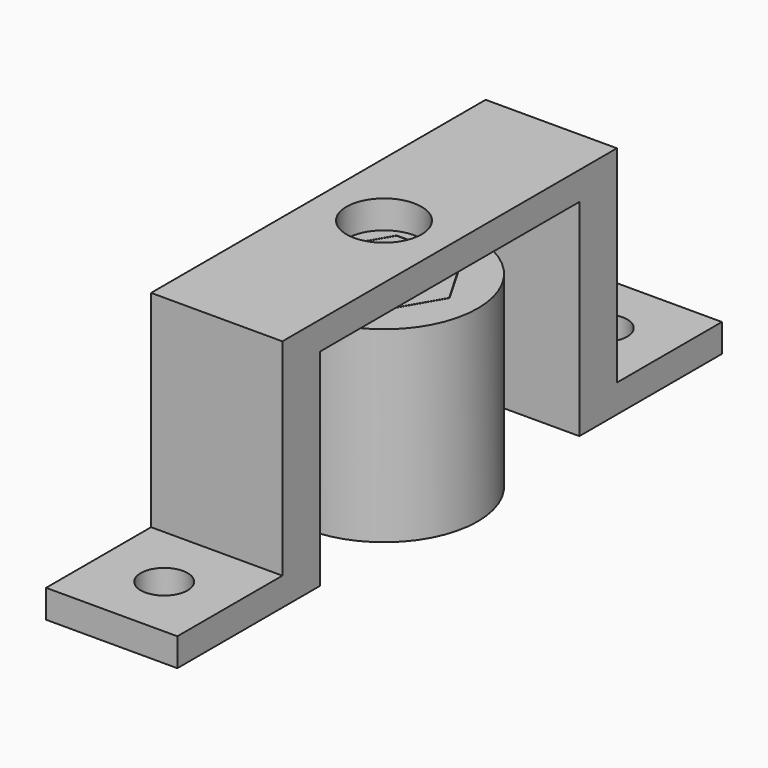
from build123d import *

# Parameters (mm, degrees)
SKETCH004_R      = 2.5
EXTRUDE003_DEPTH = 3
SKETCH005_W      = 14
SKETCH005_H      = 5
EXTRUDE004_DEPTH = 19
SKETCH006_W      = 14
SKETCH006_H      = 44.6
SKETCH006_R      = 4
EXTRUDE005_DEPTH = 3
SKETCH001_R      = 10
EXTRUDE001_DEPTH = 9
SKETCH_R         = 10
SKETCH_R_2       = 2.85
EXTRUDE_DEPTH    = 3
SKETCH007_R      = 10
EXTRUDE006_DEPTH = 8
EXTRUDE007_DEPTH = 8


with BuildPart() as p3base:
    # Sketch004 → Extrude003 (new body)
    with BuildSketch(Plane(origin=(0, 0, 0), x_dir=(1, 0, 0), z_dir=(0, 0, -1))):
        Polygon((7, 36.3), (-7, 36.3), (-7, 22.3), (-7, 17.3), (7, 17.3), (7, 22.3), align=None)
        with Locations((0, 29.3)):
            Circle(SKETCH004_R, mode=Mode.SUBTRACT)
        Polygon((7, -36.3), (7, -22.3), (7, -17.3), (-7, -17.3), (-7, -22.3), (-7, -36.3), align=None)
        with Locations((0, -29.3)):
            Circle(SKETCH004_R, mode=Mode.SUBTRACT)
    extrude(amount=-EXTRUDE003_DEPTH)


with BuildPart() as p3walls:
    # Sketch005 (on Face17 of Extrude003) → Extrude004 (new body)
    with BuildSketch(Plane.XY.offset(3)):
        with Locations((0, 19.8)):
            Rectangle(SKETCH005_W, SKETCH005_H)
        with Locations((0, -19.8)):
            Rectangle(SKETCH005_W, SKETCH005_H)
    extrude(amount=EXTRUDE004_DEPTH)


with BuildPart() as p3:
    # Sketch006 (on Face6 of Extrude004) → Extrude005 (new body)
    with BuildSketch(Plane.XY.offset(22)):
        Rectangle(SKETCH006_W, SKETCH006_H)
        Circle(SKETCH006_R, mode=Mode.SUBTRACT)
    extrude(amount=EXTRUDE005_DEPTH)

    # Fusion001: union P3Base, P3Walls
    add(p3base.part)
    add(p3walls.part)


with BuildPart() as p1hexcylinder:
    # Sketch001 (on Face4 of Extrude) → Extrude001 (new body)
    with BuildSketch(Plane.XY.offset(3)):
        Circle(SKETCH001_R)
        Polygon((2.424871, 4.2), (-2.424871, 4.2), (-4.849742, 0), (-2.424871, -4.2), (2.424871, -4.2), (4.849742, 0), align=None, mode=Mode.SUBTRACT)
    extrude(amount=EXTRUDE001_DEPTH)


with BuildPart() as p1base:
    # Sketch → Extrude (new body)
    with BuildSketch(Plane.XY):
        Circle(SKETCH_R)
        Circle(SKETCH_R_2, mode=Mode.SUBTRACT)
    extrude(amount=EXTRUDE_DEPTH)


with BuildPart() as p1:
    # Sketch007 → Extrude006 (new body)
    with BuildSketch(Plane.XY.offset(12)):
        Circle(SKETCH007_R)
        Polygon((3.5, 6.062178), (-3.5, 6.062178), (-7, 0), (-3.5, -6.062178), (3.5, -6.062178), (7, 0), align=None, mode=Mode.SUBTRACT)
    extrude(amount=EXTRUDE006_DEPTH)

    # Fusion: union P1HexCylinder, P1Base
    add(p1hexcylinder.part)
    add(p1base.part)


with BuildPart() as p2:
    # Sketch008 (on Face3 of Fusion) → Extrude007 (new body)
    with BuildSketch(Plane.XY.offset(20)):
        Polygon((3.471132, 6.012178), (-3.471132, 6.012178), (-6.942265, 0), (-3.471132, -6.012178), (3.471132, -6.012178), (6.942265, 0), align=None)
        with BuildLine():
            Line((1, 3.354102), (1, -3.354102))
            ThreePointArc((1, 3.354102), (-3.5, 0), (1, -3.354102))
        make_face(mode=Mode.SUBTRACT)
    extrude(amount=-EXTRUDE007_DEPTH)


solid = Compound([p3.part, p1.part, p2.part])
